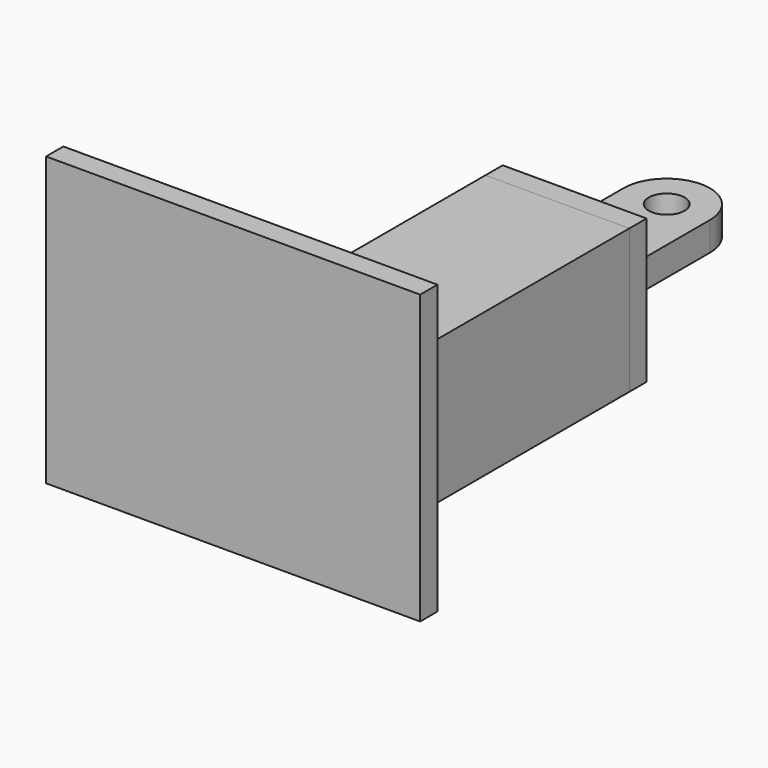
from build123d import *

# Parameters (mm, degrees)
F0_R          = 7.9375
F1_DEPTH      = 6.35
F1_DEPTH_BACK = 6.35
F2_W          = 63.5
F2_H          = 63.5
F3_DEPTH      = 9.525
F4_W          = 63.5
F4_H          = 63.5
F4_W_2        = 50.8
F4_H_2        = 50.8
F5_DEPTH      = 169.336644
F6_W          = 165.1
F6_H          = 127
F7_DEPTH      = 9.525


with BuildPart() as f1:
    # F0 (on Top) → F1 (new body, two sides)
    with BuildSketch(Plane.XY) as f1_sk:
        with BuildLine():
            Line((19.05, -50.8), (19.05, 0))
            ThreePointArc((19.05, 0), (0, 19.05), (-19.05, 0))
            Line((-19.05, 0), (-19.05, -50.8))
            Line((-19.05, -50.8), (19.05, -50.8))
        make_face()
        Circle(F0_R, mode=Mode.SUBTRACT)
    extrude(amount=F1_DEPTH)
    extrude(f1_sk.sketch, amount=-F1_DEPTH_BACK)

    # F2 (on face) → F3 (join)
    with BuildSketch(Plane.XZ.offset(50.8)):
        Rectangle(F2_W, F2_H)
    extrude(amount=F3_DEPTH)


with BuildPart() as f5:
    # F4 (on face) → F5 (new body)
    with BuildSketch(Plane.XZ.offset(60.325)):
        Rectangle(F4_W, F4_H)
        Rectangle(F4_W_2, F4_H_2, mode=Mode.SUBTRACT)
    extrude(amount=F5_DEPTH)


with BuildPart() as f7:
    # F6 (on face) → F7 (new body)
    with BuildSketch(Plane.XZ.offset(229.661644)):
        with Locations((0, 31.75)):
            Rectangle(F6_W, F6_H)
    extrude(amount=F7_DEPTH)


solid = Compound([f1.part, f5.part, f7.part])
